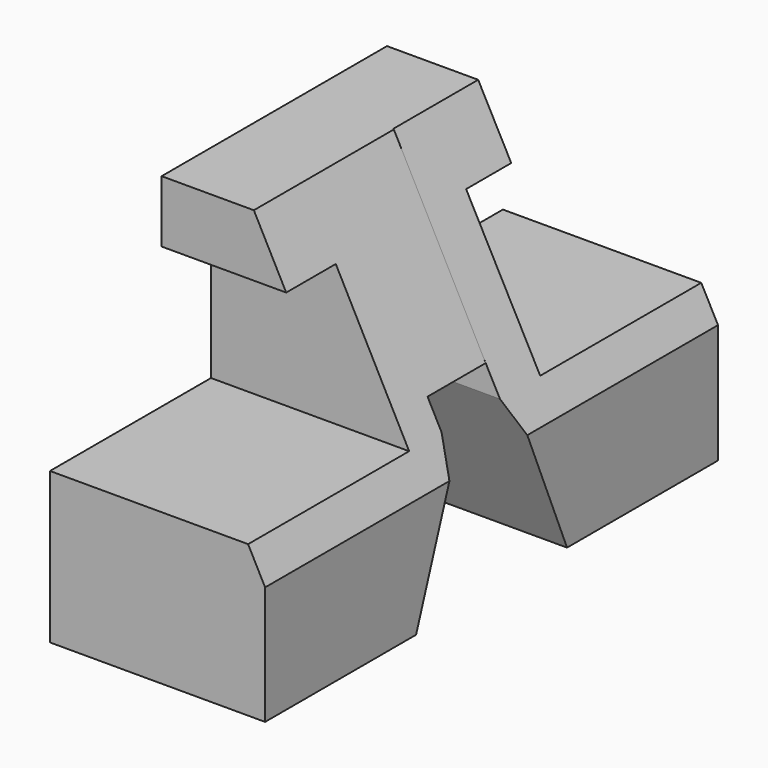
from build123d import *

# Parameters (mm, degrees)
F1_DEPTH = 43.434
F3_DEPTH = 57.404
F5_DEPTH = 71.628


with BuildPart() as f1:
    # F0 (on Right) → F1 (new body)
    with BuildSketch(Plane.YZ):
        Polygon((21.547339, 40.943282), (-35.326082, 40.943282), (-35.326082, 28.432836), (-22.815635, 28.432836), (-22.86, 0), (-63.5, 0), (-63.5, -30.48), (-25.4, -30.48), (-14.66608, 0), (-14.66608, 5.442686), (0, 5.442686), (0, 0), (12.7, -30.48), (50.8, -30.48), (50.8, 0), (10.16, 0), (10.16, 28.311027), (21.547339, 28.311027), align=None)
    extrude(amount=F1_DEPTH)

    # F2 (on Front) → F3 (cut)
    with BuildSketch(Plane.XZ):
        Polygon((15.067352, 47.276348), (45.27159, -9.890955), (45.27159, 47.276348), align=None)
    extrude(amount=-F3_DEPTH, mode=Mode.SUBTRACT)

    # F4 (on Front) → F5 (cut)
    with BuildSketch(Plane.XZ):
        Polygon((17.860672, 42.400945), (45.15991, -9.874192), (45.15991, 42.400945), align=None)
    extrude(amount=F5_DEPTH, mode=Mode.SUBTRACT)


solid = f1.part
